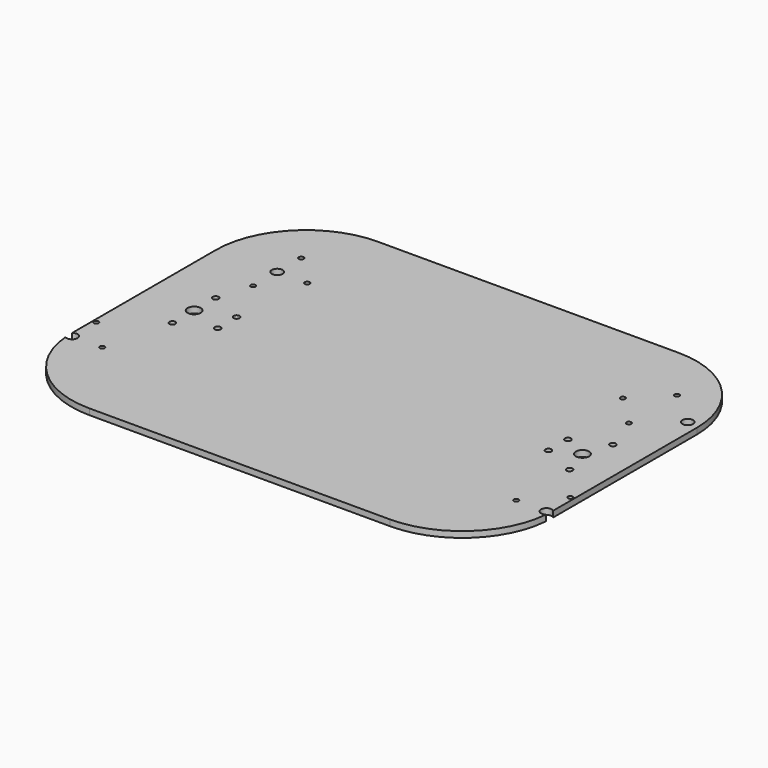
from build123d import *

# Parameters (mm, degrees)
F0_R     = 2.5
F0_R_2   = 5.5
F2_DEPTH = 5
F1_R     = 4.5
F1_R_2   = 2
F3_DEPTH = 25


with BuildPart() as f2:
    # F0 (on Top) → F2 (new body)
    with BuildSketch(Plane.XY):
        with BuildLine():
            Line((292.862811, 0), (42.862811, 0))
            ThreePointArc((42.862811, 0), (-10.170198, -21.966991), (-32.137189, -75))
            Line((-32.137189, -75), (-32.137189, -225))
            ThreePointArc((-32.137189, -225), (-10.170198, -278.033009), (42.862811, -300))
            Line((42.862811, -300), (292.862811, -300))
            ThreePointArc((292.862811, -300), (345.89582, -278.033009), (367.862811, -225))
            Line((367.862811, -225), (367.862811, -75))
            ThreePointArc((367.862811, -75), (345.89582, -21.966991), (292.862811, 0))
        make_face()
        with Locations((9.85013, -172.5)):
            Circle(F0_R, mode=Mode.SUBTRACT)
        with Locations((37.5, -160)):
            Circle(F0_R, mode=Mode.SUBTRACT)
        with Locations((312.5, -160)):
            Circle(F0_R, mode=Mode.SUBTRACT)
        with Locations((340.14987, -172.5)):
            Circle(F0_R, mode=Mode.SUBTRACT)
        with Locations((10, -150)):
            Circle(F0_R_2, mode=Mode.SUBTRACT)
        with Locations((9.884283, -127.5)):
            Circle(F0_R, mode=Mode.SUBTRACT)
        with Locations((37.271591, -140)):
            Circle(F0_R, mode=Mode.SUBTRACT)
        with Locations((312.728409, -140)):
            Circle(F0_R, mode=Mode.SUBTRACT)
        with Locations((332.862811, -150)):
            Circle(F0_R_2, mode=Mode.SUBTRACT)
        with Locations((340.115717, -127.5)):
            Circle(F0_R, mode=Mode.SUBTRACT)
    extrude(amount=F2_DEPTH)

    # F1 (on Top) → F3 (cut)
    with BuildSketch(Plane.XY):
        with Locations((18.23351, -74.02933)):
            Circle(F1_R)
        with Locations((18.23351, -49.02933)):
            Circle(F1_R_2)
        with Locations((18.23351, -99.02933)):
            Circle(F1_R_2)
        with Locations((43.23351, -74.02933)):
            Circle(F1_R_2)
        with Locations((-29.26649, -252.695118)):
            Circle(F1_R_2)
        with Locations((-4.26649, -227.695118)):
            Circle(F1_R_2)
        with Locations((-29.26649, -202.695118)):
            Circle(F1_R_2)
        with Locations((-29.26649, -227.695118)):
            Circle(F1_R)
        with Locations((304.26649, -72.304882)):
            Circle(F1_R_2)
        with Locations((329.26649, -47.304882)):
            Circle(F1_R_2)
        with Locations((358.23351, -72.304882)):
            Circle(F1_R)
        with Locations((329.26649, -97.304882)):
            Circle(F1_R_2)
        with Locations((339.992112, -227.695118)):
            Circle(F1_R_2)
        with Locations((364.992112, -202.695118)):
            Circle(F1_R_2)
        with Locations((364.992112, -252.695118)):
            Circle(F1_R_2)
        with Locations((364.992112, -227.695118)):
            Circle(F1_R)
    extrude(amount=F3_DEPTH, mode=Mode.SUBTRACT)


solid = f2.part
